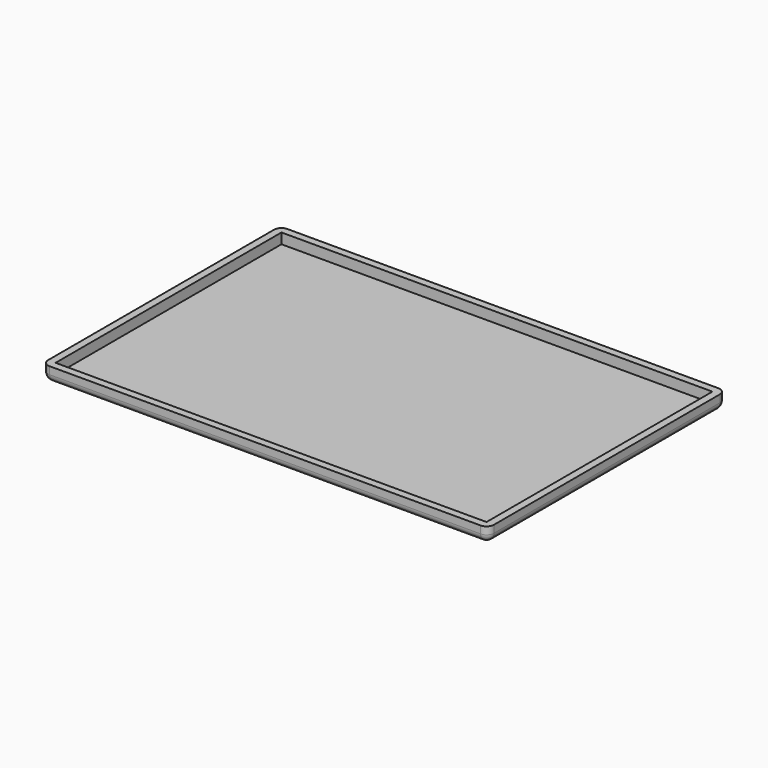
from build123d import *

# Parameters (mm, degrees)
F0_W     = 300
F0_H     = 200
F0_W_2   = 295
F0_H_2   = 195
F0_W_3   = 290
F0_H_3   = 190
F1_DEPTH = 10
F2_DEPTH = 3
F3_DEPTH = 3
F4_R     = 5
F5_R     = 5


with BuildPart() as f1:
    # F0 (on Top) → F1 (new body)
    with BuildSketch(Plane.XY):
        Rectangle(F0_W, F0_H)
        Rectangle(F0_W_2, F0_H_2, mode=Mode.SUBTRACT)
        Rectangle(F0_W_2, F0_H_2)
        Rectangle(F0_W_3, F0_H_3, mode=Mode.SUBTRACT)
    extrude(amount=F1_DEPTH)

    # F0 (on Top) → F2 (cut)
    with BuildSketch(Plane.XY):
        Rectangle(F0_W_2, F0_H_2)
        Rectangle(F0_W_3, F0_H_3, mode=Mode.SUBTRACT)
    extrude(amount=F2_DEPTH, mode=Mode.SUBTRACT)

    # F0 (on Top) → F3 (join)
    with BuildSketch(Plane.XY):
        Rectangle(F0_W_2, F0_H_2)
        Rectangle(F0_W_3, F0_H_3, mode=Mode.SUBTRACT)
        Rectangle(F0_W_3, F0_H_3)
    extrude(amount=F3_DEPTH)

    # F4
    f4_edges = [f1.edges().sort_by_distance(p)[0] for p in [
        (-150, -100, 5),
        (150, -100, 5),
        (150, 100, 5),
        (-150, 100, 5),
    ]]
    fillet(f4_edges, radius=F4_R)

    # F5
    f5_edges = [f1.edges().sort_by_distance(p)[0] for p in [
        (150, 0, 0),
        (148.535534, -98.535534, 0),
        (148.535534, 98.535534, 0),
        (0, -100, 0),
        (0, 100, 0),
        (-148.535534, -98.535534, 0),
        (-148.535534, 98.535534, 0),
        (-150, 0, 0),
    ]]
    fillet(f5_edges, radius=F5_R)


solid = f1.part
